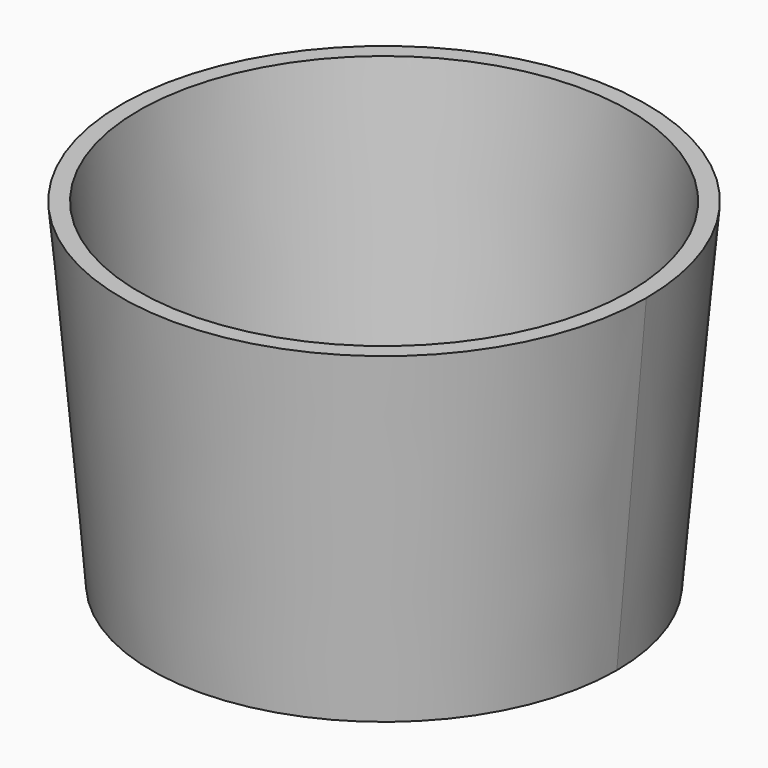
from build123d import *

# Parameters (mm, degrees)
F1_DEPTH = 50.546
F1_TAPER = -5
F2_T     = -2.54


with BuildPart() as f1:
    # F0 (on Top) → F1 (new body)
    with BuildSketch(Plane.XY):
        with BuildLine():
            ThreePointArc((17.9527495512, 17.7884720595), (-45.6717519147, -9.2226151698), (22.8309443061, 0))
            ThreePointArc((22.8309443061, 0), (21.5892905426, 9.2226151698), (17.9527495512, 17.7884720595))
        make_face()
    extrude(amount=F1_DEPTH, taper=F1_TAPER)

    # F2
    f2_openings = [f1.faces().sort_by_distance(p)[0] for p in [
        (-12.041231, 0, 50.546),
    ]]
    offset(amount=F2_T, openings=f2_openings, kind=Kind.INTERSECTION)


solid = f1.part
